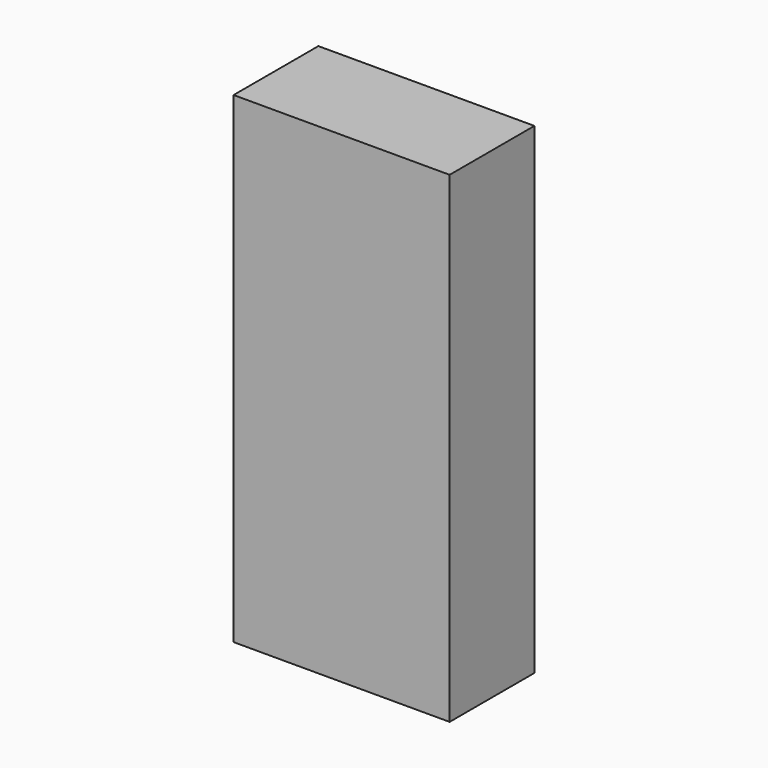
from build123d import *

# Parameters (mm, degrees)
F0_W      = 61.976
F0_H      = 138.176
F1_DEPTH  = 5
F1_FACE_W = 61.976
F1_FACE_H = 138.176
F2_DEPTH  = 25.4


with BuildPart() as f1:
    # F0 (on Front) → F1 (new body)
    with BuildSketch(Plane.XZ):
        with Locations((-137.977511, 69.088)):
            Rectangle(F0_W, F0_H)
    extrude(amount=F1_DEPTH)

    # F1_face (on face) → F2 (join)
    with BuildSketch(Plane(origin=(-137.977511, 0, 69.088), x_dir=(1, 0, 0), z_dir=(0, 1, 0))):
        Rectangle(F1_FACE_W, F1_FACE_H)
        Rectangle(F1_FACE_W, F1_FACE_H)
    extrude(amount=F2_DEPTH)


solid = f1.part
